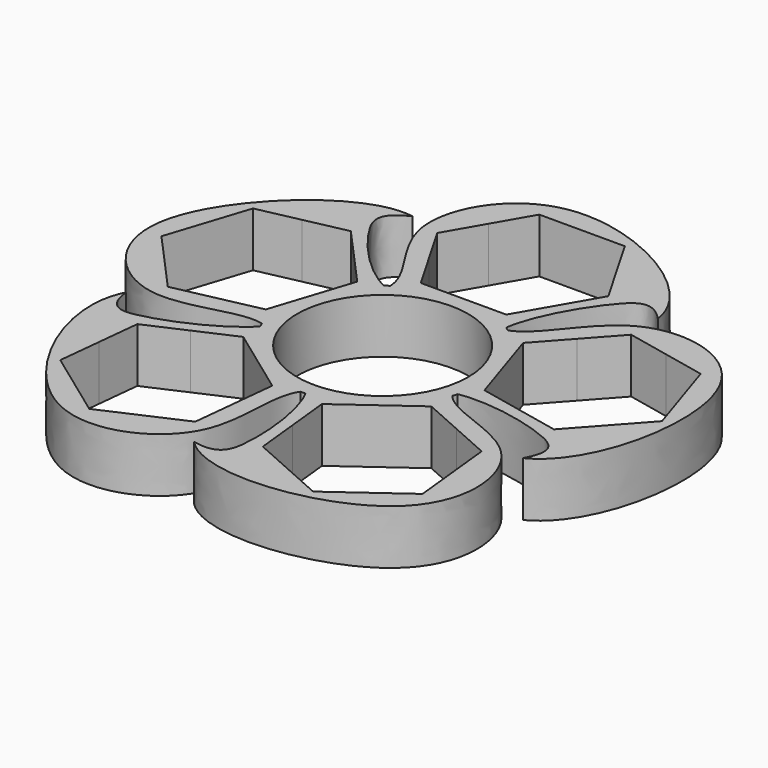
from build123d import *

# Parameters (mm, degrees)
F0_R     = 11
F1_DEPTH = 7
F2_COUNT = 5


with BuildPart() as f1:
    # F0 (on Top) → F1 (new body)
    with BuildSketch(Plane.XY):
        with BuildLine():
            ThreePointArc((0, 13), (3.7905348907, 12.4351053571), (7.2516462654, 10.7895146527))
            add(Edge.make_bspline(
                [(17.9348975709, 21.8143326287), (15.5501263216, 24.4103763252), (12.02569754, 22.0389403249), (7.6782712302, 14.1523831855), (7.2516462654, 10.7895146527)],
                knots=[0, 0, 0, 0, 0.3989378216, 1, 1, 1, 1], degree=3))
            add(Edge.make_bspline(
                [(-7.4946351981, 10.6221675399), (-7.6877982356, 14.0730245039), (-16.9816558278, 21.7050431862), (-5.7752638848, 41.6182972459), (17.0080556558, 28.9518470832), (17.9348975709, 21.8143326287)],
                knots=[0, 0, 0, 0, 0.2869603255, 0.5980055899, 1, 1, 1, 1], degree=3))
            ThreePointArc((-7.4946351981, 10.6221675399), (-3.9314006398, 12.3912908532), (0, 13))
        make_face()
        Polygon((5.499261314, 13), (0, 13), (-5.499261314, 13), (-8.2488920963, 17.7625002169), (-10.9985226281, 22.525), (-8.24889179, 27.2875003136), (-5.499261314, 32.05), (0, 32.05), (5.499261314, 32.05), (8.2488918485, 27.2875002122), (10.9985226281, 22.525), (8.248891917, 17.7624999064), align=None, mode=Mode.SUBTRACT)
        with BuildLine():
            ThreePointArc((-7.4946351981, 10.6221675399), (-5.982045738, -11.5418858419), (13, 0))
            ThreePointArc((13, 0), (11.4732602483, 6.1126343973), (7.2516462654, 10.7895146527))
            ThreePointArc((7.2516462654, 10.7895146527), (3.7905348907, 12.4351053571), (0, 13))
            ThreePointArc((0, 13), (-3.9314006398, 12.3912908532), (-7.4946351981, 10.6221675399))
        make_face()
        Circle(F0_R, mode=Mode.SUBTRACT)
    extrude(amount=F1_DEPTH)

    # F2: F1 ×5 about axis
    f2_axis = Axis((0, 0, 7), (0, 0, 1))


with BuildPart() as f1_1:
    add(f1.part)
    for i in range(1, F2_COUNT):
        add(f1.part.rotate(f2_axis, i * 360 / F2_COUNT))


solid = f1_1.part
